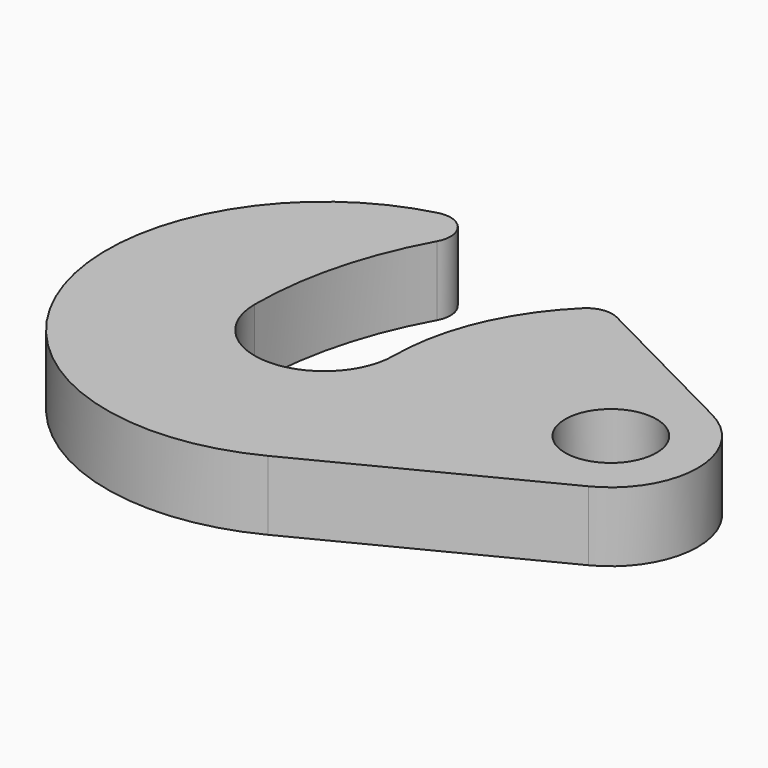
from build123d import *

# Parameters (mm, degrees)
F1_DEPTH = 8
F3_D     = 10.5


with BuildPart() as f1:
    # F0 (on Top) → F1 (new body)
    with BuildSketch(Plane.XY):
        with BuildLine():
            ThreePointArc((8, 0), (0, -8), (-8, 0))
            ThreePointArc((-8, 0), (-6.698079, 10.25), (-2.875, 19.84904))
            ThreePointArc((-2.875, 19.84904), (-3.128292, 23.138526), (-6.25, 24.206146))
            ThreePointArc((-6.25, 24.206146), (-23.377359, -8.85997), (11.363636, -22.268089))
            Line((11.363636, -22.268089), (37.545455, -8.907235))
            ThreePointArc((37.545455, -8.907235), (43, 0), (37.545455, 8.907235))
            Line((37.545455, 8.907235), (18.967942, 18.387533))
            ThreePointArc((18.967942, 18.387533), (17.151154, 18.68094), (15.504893, 17.858366))
            ThreePointArc((15.504893, 17.858366), (9.952466, 9.685616), (8, 0))
        make_face()
    extrude(amount=-F1_DEPTH)

    # F3 (through all)
    with Locations(Plane.XY):
        with Locations((33, 0)):
            Hole(F3_D / 2)


solid = f1.part
